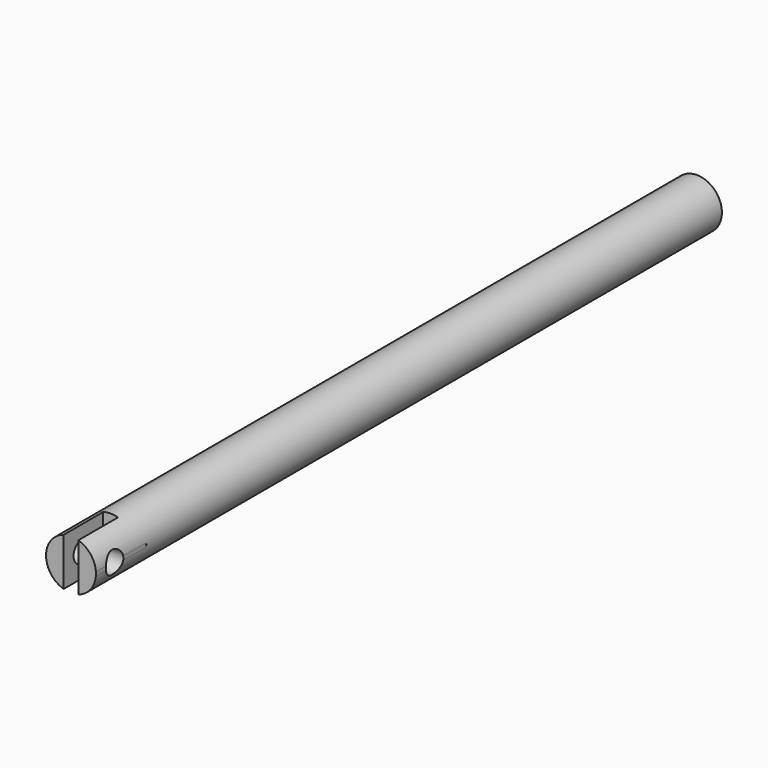
from build123d import *

# Parameters (mm, degrees)
F0_R     = 13.9
F1_DEPTH = 217.8
F3_DEPTH = 35
F5_D     = 12.2
F7_DEPTH = 27.5


with BuildPart() as f1:
    # F0 (on Front) → F1 (new body, symmetric)
    with BuildSketch(Plane.XZ):
        Circle(F0_R)
    extrude(amount=F1_DEPTH, both=True)

    # F2 (on face) → F3 (cut)
    with BuildSketch(Plane.XZ.offset(217.8)):
        with BuildLine():
            ThreePointArc((13.9, 0), (13.8906348377, 0.5101605694), (13.8625519703, 1.0196336946))
            Line((13.8625519703, 1.0196336946), (13.8625519703, -1.0196336946))
            ThreePointArc((13.8625519703, -1.0196336946), (13.8906348377, -0.5101605694), (13.9, 0))
        make_face()
    extrude(amount=-F3_DEPTH, mode=Mode.SUBTRACT)

    # F5 (through all)
    with Locations(Plane.YZ.offset(13.8625519703)):
        with Locations((-204.8, 0)):
            Hole(F5_D / 2)

    # F6 (on face) → F7 (cut)
    with BuildSketch(Plane.XZ.offset(217.8)):
        with BuildLine():
            ThreePointArc((4.1, 13.2815661727), (0, 13.9), (-4.1, 13.2815661727))
            Line((-4.1, 13.2815661727), (-4.1, -13.2815661727))
            ThreePointArc((-4.1, -13.2815661727), (0, -13.9), (4.1, -13.2815661727))
            Line((4.1, -13.2815661727), (4.1, 13.2815661727))
        make_face()
    extrude(amount=-F7_DEPTH, mode=Mode.SUBTRACT)


solid = f1.part
